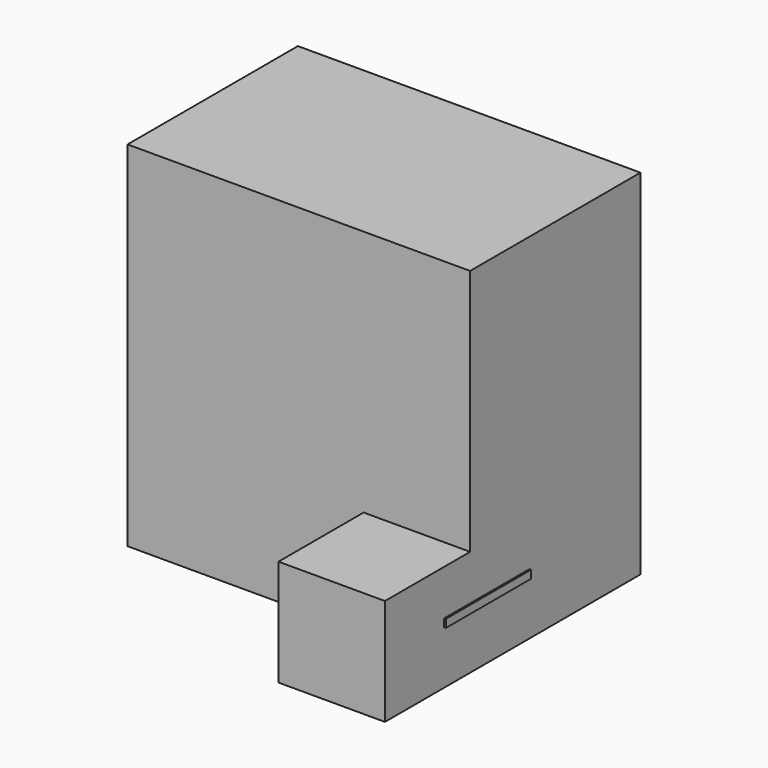
from build123d import *

# Parameters (mm, degrees)
F0_W     = 0.190955
F0_H     = 42.200983
F0_W_2   = 40.673342
F1_DEPTH = 25.4
F2_W     = 12.7
F2_H     = 12.7
F2_W_2   = 0.190955
F2_H_2   = 0.954772
F3_DEPTH = 12.7


with BuildPart() as f1:
    # F0 (on Front) → F1 (new body)
    with BuildSketch(Plane.XZ):
        with Locations((-42.678365, 21.100492)):
            Rectangle(F0_W, F0_H)
        with Locations((-22.246217, 21.100492)):
            Rectangle(F0_W_2, F0_H)
    extrude(amount=F1_DEPTH)

    # F2 (on face) → F3 (join)
    with BuildSketch(Plane.XZ.offset(25.4)):
        with Locations((-8.259546, 6.35)):
            Rectangle(F2_W, F2_H)
        with Locations((5.251253, 12.698485)):
            Rectangle(F2_W_2, F2_H_2)
    extrude(amount=F3_DEPTH)


solid = f1.part
